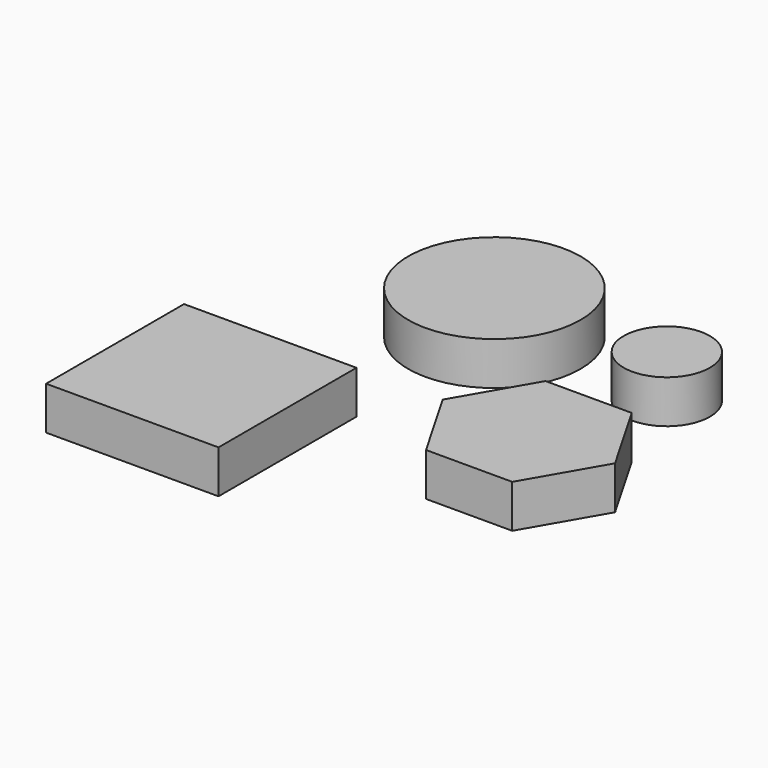
from build123d import *

# Parameters (mm, degrees)
F0_W     = 20
F0_H     = 20
F0_R     = 5
F0_R_2   = 10
F1_DEPTH = 5


with BuildPart() as f1:
    # F0 (on Top) → F1 (new body)
    with BuildSketch(Plane.XY):
        with Locations((10, 10)):
            Rectangle(F0_W, F0_H)
        Polygon((35, 11.339746), (45, 11.339746), (50, 20), (45, 28.660254), (35, 28.660254), (30, 20), align=None)
        with Locations((40, 40)):
            Circle(F0_R)
        with Locations((20, 40)):
            Circle(F0_R_2)
    extrude(amount=F1_DEPTH)


solid = f1.part
